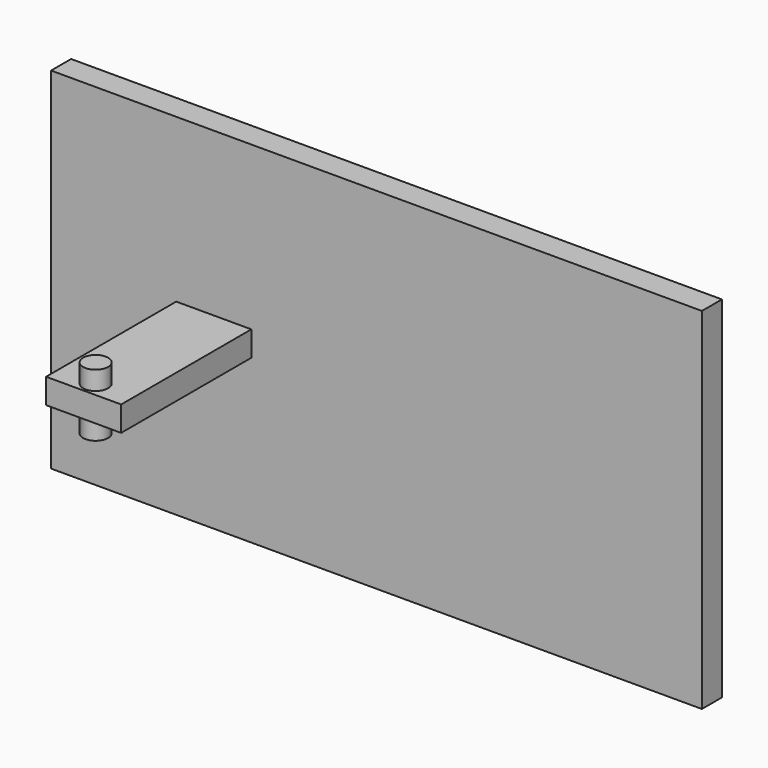
from build123d import *

# Parameters (mm, degrees)
F0_W     = 260
F0_H     = 140
F1_DEPTH = 5
F2_W     = 30
F2_H     = 65
F2_R     = 5
F3_DEPTH = 5
F4_DEPTH = 12.5


with BuildPart() as f1:
    # F0 (on Front) → F1 (new body, symmetric)
    with BuildSketch(Plane.XZ):
        Rectangle(F0_W, F0_H)
    extrude(amount=F1_DEPTH, both=True)


with BuildPart() as f3:
    # F2 (on Top) → F3 (new body, symmetric)
    with BuildSketch(Plane.XY):
        with Locations((-65, -37.5)):
            Rectangle(F2_W, F2_H)
        with Locations((-65, -64)):
            Circle(F2_R, mode=Mode.SUBTRACT)
    extrude(amount=F3_DEPTH, both=True)

    # F2 (on Top) → F4 (join, symmetric)
    with BuildSketch(Plane.XY):
        with Locations((-65, -64)):
            Circle(F2_R)
    extrude(amount=F4_DEPTH, both=True)


solid = Compound([f1.part, f3.part])
